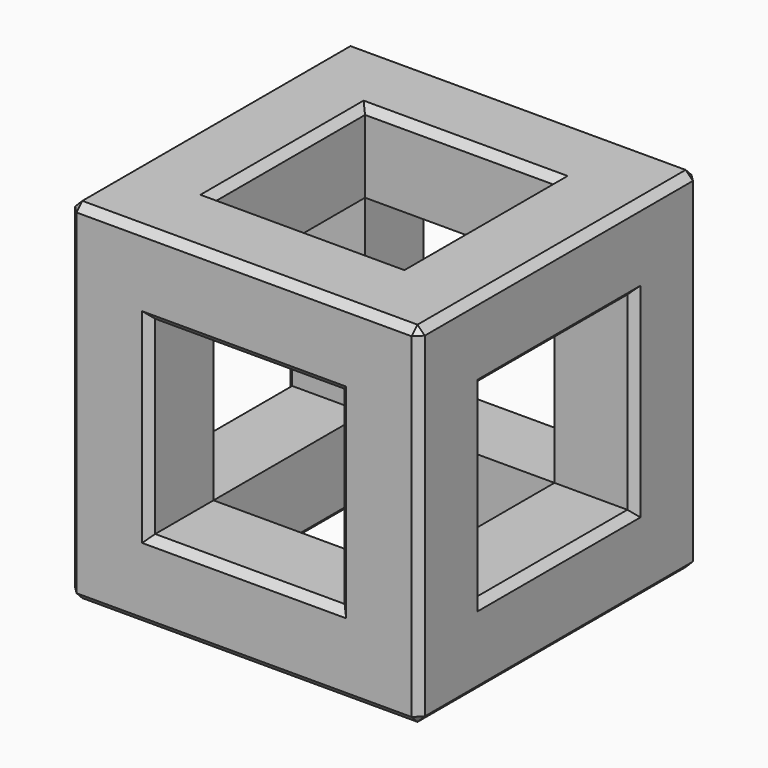
from build123d import *

# Parameters (mm, degrees)
F0_W          = 24
F0_H          = 24
F0_W_2        = 13
F0_H_2        = 13
F1_DEPTH      = 12
F1_DEPTH_BACK = 12
F2_W          = 13
F2_H          = 13
F3_DEPTH      = 24.001
F4_W          = 13
F4_H          = 13
F5_DEPTH      = 24.001
F6_SIZE       = 0.5


with BuildPart() as f1:
    # F0 (on Top) → F1 (new body, two sides)
    with BuildSketch(Plane.XY) as f1_sk:
        Rectangle(F0_W, F0_H)
        Rectangle(F0_W_2, F0_H_2, mode=Mode.SUBTRACT)
    extrude(amount=F1_DEPTH)
    extrude(f1_sk.sketch, amount=-F1_DEPTH_BACK)

    # F2 (on face) → F3 (cut, through all)
    with BuildSketch(Plane.XZ.offset(12)):
        Rectangle(F2_W, F2_H)
    extrude(amount=-F3_DEPTH, mode=Mode.SUBTRACT)

    # F4 (on face) → F5 (cut, through all)
    with BuildSketch(Plane.YZ.offset(12)):
        Rectangle(F4_W, F4_H)
    extrude(amount=-F5_DEPTH, mode=Mode.SUBTRACT)

    # F6
    f6_edges = [f1.edges().sort_by_distance(p)[0] for p in [
        (-12, 0, 12),
        (-12, 12, 0),
        (-12, 0, -12),
        (-12, -12, 0),
        (12, 0, 12),
        (12, 12, 0),
        (12, 0, -12),
        (12, -12, 0),
        (0, 12, -12),
        (0, 12, 12),
        (0, -12, -12),
        (0, -12, 12),
        (6.5, 0, 12),
        (0, 6.5, 12),
        (-6.5, 0, 12),
        (0, -6.5, 12),
        (6.5, -12, 0),
        (0, -12, 6.5),
        (-6.5, -12, 0),
        (0, -12, -6.5),
        (12, -6.5, 0),
        (12, 0, 6.5),
        (12, 6.5, 0),
        (12, 0, -6.5),
        (6.5, 12, 0),
        (0, 12, 6.5),
        (-6.5, 12, 0),
        (0, 12, -6.5),
        (0, 6.5, -12),
        (6.5, 0, -12),
        (0, -6.5, -12),
        (-6.5, 0, -12),
        (-12, 0, -6.5),
        (-12, 6.5, 0),
        (-12, 0, 6.5),
        (-12, -6.5, 0),
    ]]
    chamfer(f6_edges, length=F6_SIZE)


solid = f1.part
